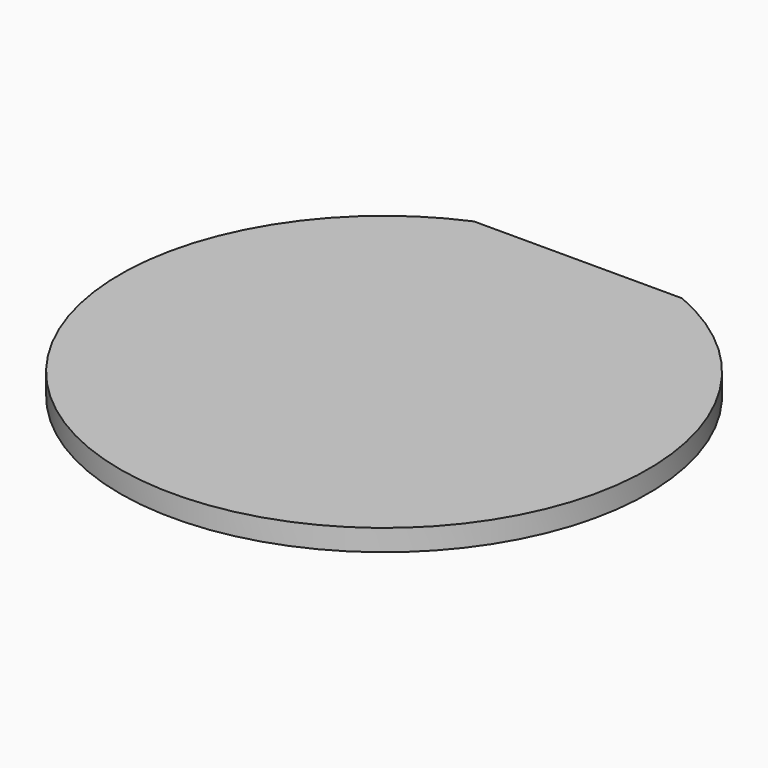
from build123d import *

# Parameters (mm, degrees)
BOX818_W           = 148
BOX818_H           = 20
BOX818_DEPTH       = 34
CYLINDER1864_R     = 74
CYLINDER1864_DEPTH = 6


with BuildPart() as krychle818:
    # Box818 → Box818 (new body)
    with BuildSketch(Plane(origin=(-74, 68, 38), x_dir=(1, 0, 0), z_dir=(0, 0, 1))):
        with Locations((74, 10)):
            Rectangle(BOX818_W, BOX818_H)
    extrude(amount=BOX818_DEPTH)


with BuildPart() as cut603:
    # Cylinder1864 → Cylinder1864 (new body)
    with BuildSketch(Plane.XY.offset(65)):
        Circle(CYLINDER1864_R)
    extrude(amount=CYLINDER1864_DEPTH)

    # Cut603: cut Krychle818
    add(krychle818.part, mode=Mode.SUBTRACT)


with BuildPart() as cut603_1:
    # Cut603 placement: moved
    add(cut603.part.moved(Location((0, 0, 13))))


solid = cut603_1.part
